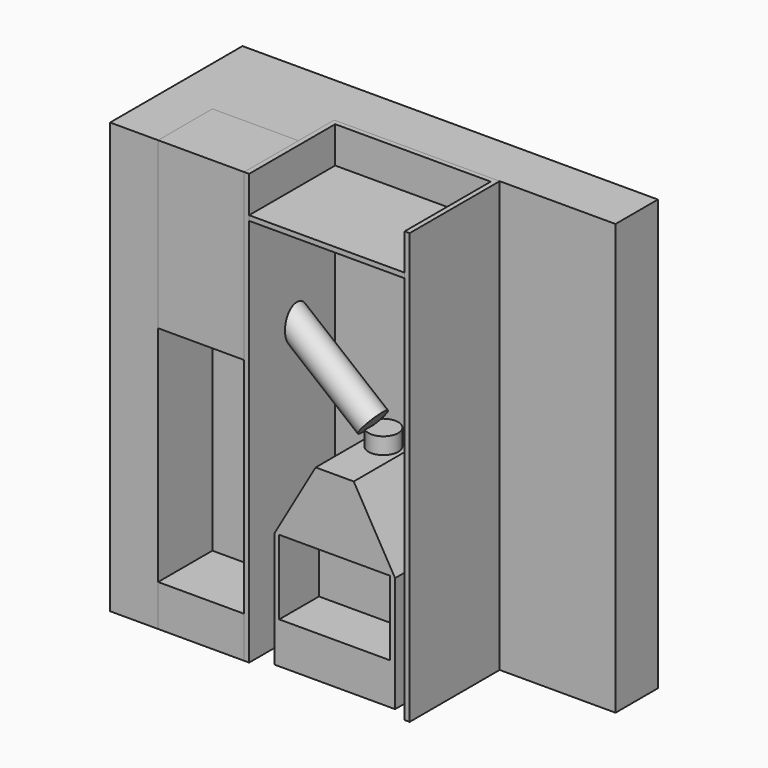
from build123d import *

# Parameters (mm, degrees)
F1_DEPTH  = 2600
F2_R      = 90
F3_DEPTH  = 590.001
F5_W      = 730
F5_H      = 530
F6_DEPTH  = 1130
F7_W      = 670
F7_H      = 450
F8_DEPTH  = 300
F9_SIZE2  = 433.0127018922
F9_SIZE   = 250
F10_R     = 90
F11_DEPTH = 100
F15_R     = 90
F16_DEPTH = 900
F17_W     = 520
F17_H     = 410
F18_DEPTH = 250
F19_START = -1600
F19_DEPTH = 1000
F20_DEPTH = 2600
F22_W     = 940
F22_H     = 650
F23_DEPTH = 30


with BuildPart() as f1:
    # F0 (on Top) → F1 (new body)
    with BuildSketch(Plane.XY):
        Polygon((0, 1000), (0, 0), (290, 0), (290, 410), (810, 410), (810, 680), (2510, 680), (2510, 1000), align=None)
    extrude(amount=F1_DEPTH)

    # F2 (on face) → F3 (cut, through all)
    with BuildSketch(Plane.XZ.offset(-410)):
        with Locations((610, 1850)):
            Circle(F2_R)
    extrude(amount=-F3_DEPTH, mode=Mode.SUBTRACT)


with BuildPart() as f6:
    # F5 (on face) → F6 (new body)
    with BuildSketch(Plane(origin=(0, 0, 0), x_dir=(1, 0, 0), z_dir=(0, 0, -1))):
        with Locations((1310, -323.7908844676)):
            Rectangle(F5_W, F5_H)
    extrude(amount=-F6_DEPTH)

    # F7 (on face) → F8 (cut)
    with BuildSketch(Plane.XZ.offset(-58.7908844676)):
        with Locations((1310, 475)):
            Rectangle(F7_W, F7_H)
    extrude(amount=-F8_DEPTH, mode=Mode.SUBTRACT)

    # F9
    f9_edges = [f6.edges().sort_by_distance(p)[0] for p in [
        (945, 323.790884, 1130),
        (1675, 323.790884, 1130),
    ]]
    f9_side = f6.faces().sort_by_distance((1310, 323.790884, 1130))[0]
    chamfer(f9_edges, length=F9_SIZE, length2=F9_SIZE2, reference=f9_side)

    # F10 (on face) → F11 (join)
    with BuildSketch(Plane.XY.offset(1130)):
        with Locations((1310, 426.383882761)):
            Circle(F10_R)
    extrude(amount=F11_DEPTH)


with BuildPart() as f16:
    # F15 (on line) → F16 (new body)
    with BuildSketch(Plane(origin=(-543.0818226135, 0, 440.9639212682), x_dir=(0, 1, 0), z_dir=(0.7763168849, 0, -0.6303428387))):
        with Locations((360.6200218201, 1814.9853944778)):
            Circle(F15_R)
    extrude(amount=F16_DEPTH)


with BuildPart() as f18:
    # F17 (on face) → F18 (new body)
    with BuildSketch(Plane(origin=(0, 0, 0), x_dir=(1, 0, 0), z_dir=(0, 0, -1))):
        with Locations((550, -205)):
            Rectangle(F17_W, F17_H)
    extrude(amount=-F18_DEPTH)


with BuildPart() as f19:
    # F17 (on face) → F19 (new body)
    with BuildSketch(Plane(origin=(0, 0, 0), x_dir=(1, 0, 0), z_dir=(0, 0, -1)).offset(F19_START)):
        with Locations((550, -205)):
            Rectangle(F17_W, F17_H)
    extrude(amount=-F19_DEPTH)


with BuildPart() as f20:
    # F4 (on face) → F20 (new body, through all)
    with BuildSketch(Plane(origin=(0, 0, 0), x_dir=(1, 0, 0), z_dir=(0, 0, -1))):
        Polygon((810, 0), (810, -680), (1810, -680), (1810, 0), (1780, 0), (1780, -650), (840, -650), (840, 0), align=None)
    extrude(amount=-F20_DEPTH)


with BuildPart() as f23:
    # F22 (on offset) → F23 (new body)
    with BuildSketch(Plane.XY.offset(2350)):
        with Locations((1310, 325)):
            Rectangle(F22_W, F22_H)
    extrude(amount=F23_DEPTH)


solid = Compound([f1.part, f6.part, f16.part, f18.part, f19.part, f20.part, f23.part])
